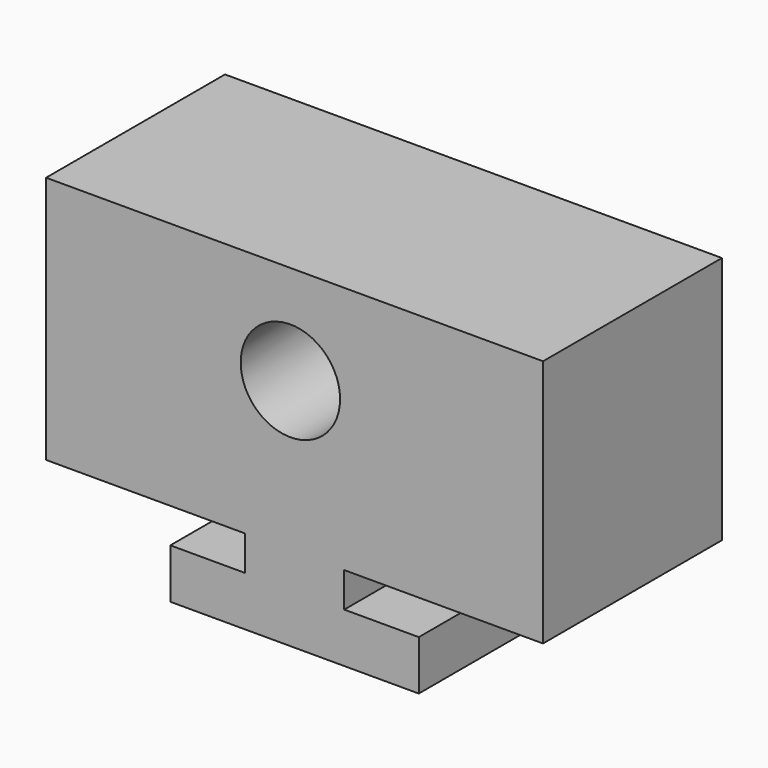
from build123d import *

# Parameters (mm, degrees)
F0_W      = 127
F0_H      = 85.09
F1_DEPTH  = 57.15
F2_W      = 31.75
F2_H      = 12.7
F3_DEPTH  = 57.15
F4_W      = 50.8
F4_H      = 8.89
F5_DEPTH  = 57.15
F6_W      = 31.75
F6_H      = 12.7
F7_DEPTH  = 57.15
F8_W      = 50.8
F8_H      = 8.89
F9_DEPTH  = 57.15
F10_R     = 12.7
F11_DEPTH = 25.4


with BuildPart() as f1:
    # F0 (on Front) → F1 (new body)
    with BuildSketch(Plane.XZ):
        with Locations((63.5, -42.545)):
            Rectangle(F0_W, F0_H)
    extrude(amount=F1_DEPTH)

    # F2 (on face) → F3 (cut)
    with BuildSketch(Plane.XZ.offset(57.15)):
        with Locations((111.125, -78.74)):
            Rectangle(F2_W, F2_H)
    extrude(amount=-F3_DEPTH, mode=Mode.SUBTRACT)

    # F4 (on face) → F5 (cut)
    with BuildSketch(Plane.XZ.offset(57.15)):
        with Locations((101.6, -67.945)):
            Rectangle(F4_W, F4_H)
    extrude(amount=-F5_DEPTH, mode=Mode.SUBTRACT)

    # F6 (on face) → F7 (cut)
    with BuildSketch(Plane.XZ.offset(57.15)):
        with Locations((15.875, -78.74)):
            Rectangle(F6_W, F6_H)
    extrude(amount=-F7_DEPTH, mode=Mode.SUBTRACT)

    # F8 (on face) → F9 (cut)
    with BuildSketch(Plane.XZ.offset(57.15)):
        with Locations((25.4, -67.945)):
            Rectangle(F8_W, F8_H)
    extrude(amount=-F9_DEPTH, mode=Mode.SUBTRACT)

    # F10 (on face) → F11 (cut)
    with BuildSketch(Plane.XZ.offset(57.15)):
        with Locations((62.435351, -25.4)):
            Circle(F10_R)
    extrude(amount=-F11_DEPTH, mode=Mode.SUBTRACT)


solid = f1.part
